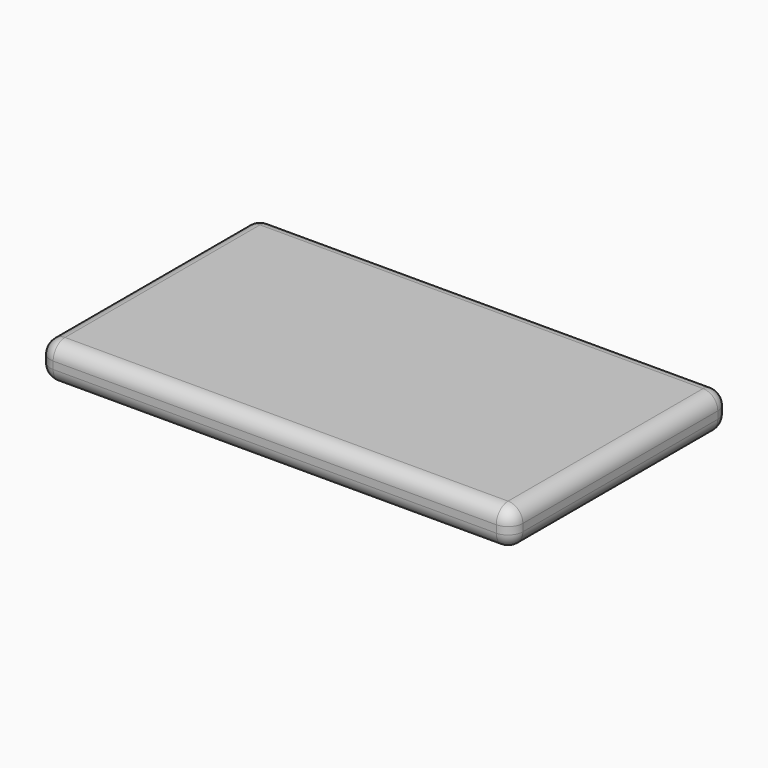
from build123d import *

# Parameters (mm, degrees)
F0_W      = 1625.6
F0_H      = 635
F1_DEPTH  = 127
F1_FACE_W = 1625.6
F1_FACE_H = 127
F2_DEPTH  = 304.8
F3_R      = 50.8


with BuildPart() as f1:
    # F0 (on Top) → F1 (new body)
    with BuildSketch(Plane.XY):
        Rectangle(F0_W, F0_H)
    extrude(amount=F1_DEPTH)

    # F1_face (on face) → F2 (join)
    with BuildSketch(Plane(origin=(0, -317.5, 63.5), x_dir=(1, 0, 0), z_dir=(0, -1, 0))):
        Rectangle(F1_FACE_W, F1_FACE_H)
    extrude(amount=F2_DEPTH)

    # F3
    f3_edges = [f1.edges().sort_by_distance(p)[0] for p in [
        (812.8, -152.4, 127),
        (0, 317.5, 127),
        (-812.8, -152.4, 127),
        (0, -622.3, 127),
        (0, -622.3, 0),
        (812.8, 317.5, 63.5),
        (812.8, -152.4, 0),
        (812.8, -622.3, 63.5),
        (-812.8, 317.5, 63.5),
        (0, 317.5, 0),
        (-812.8, -622.3, 63.5),
        (-812.8, -152.4, 0),
    ]]
    fillet(f3_edges, radius=F3_R)


solid = f1.part
